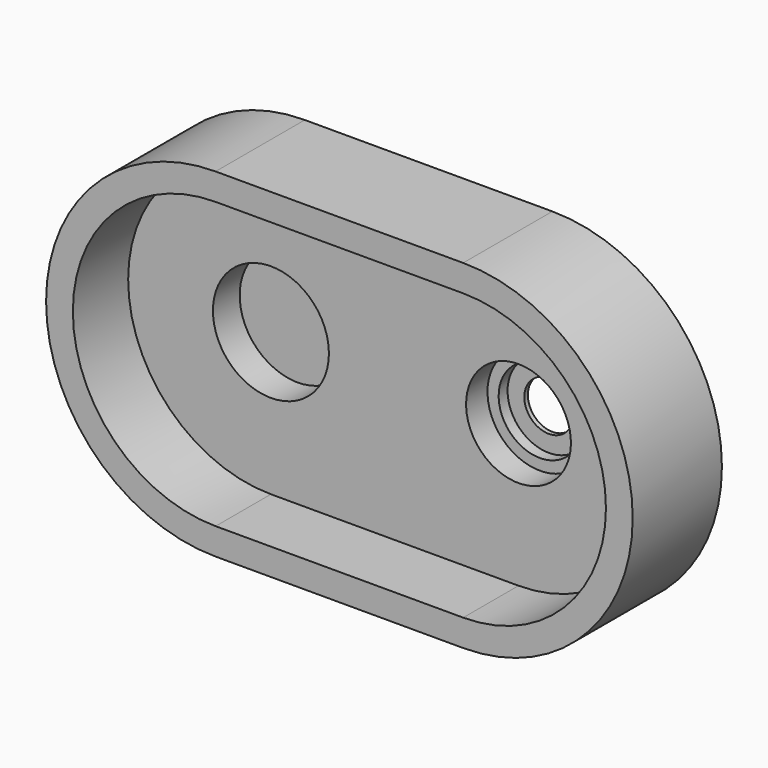
from build123d import *

# Parameters (mm, degrees)
F1_DEPTH = 50
F3_R     = 26
F4_DEPTH = 50
F5_DEPTH = 46


with BuildPart() as f1:
    # F0 (on Front) → F1 (new body)
    with BuildSketch(Plane.XZ):
        with BuildLine():
            Line((111, 76), (0, 76))
            ThreePointArc((0, 76), (-76, 0), (0, -76))
            Line((0, -76), (111, -76))
            ThreePointArc((111, -76), (187, 0), (111, 76))
        make_face()
    extrude(amount=F1_DEPTH)

    # F3 (on offset) → F4 (cut)
    with BuildSketch(Plane.XZ.offset(19)):
        with BuildLine():
            Line((111, 64), (0, 64))
            ThreePointArc((0, 64), (-64, 0), (0, -64))
            Line((0, -64), (111, -64))
            ThreePointArc((111, -64), (175, 0), (111, 64))
        make_face()
        Circle(F3_R, mode=Mode.SUBTRACT)
    extrude(amount=F4_DEPTH, mode=Mode.SUBTRACT)

    # F5 (cut): a face of the model
    f5_faces = [f1.faces().sort_by_distance(p)[0] for p in [
        (0, -50, 0),
    ]]
    extrude(f5_faces, amount=-F5_DEPTH, mode=Mode.SUBTRACT)

    # F7 (on offset) → F8 (revolve, cut)
    with BuildSketch(Plane.YZ.offset(111)):
        Polygon((-19, 0), (0, 0), (0, 11), (-2, 11), (-2, 18.5), (-7, 18.5), (-7, 23.5), (-19, 23.5), align=None)
    revolve(axis=Axis((111, 0, 0), (0, 1, 0)), mode=Mode.SUBTRACT)


solid = f1.part
